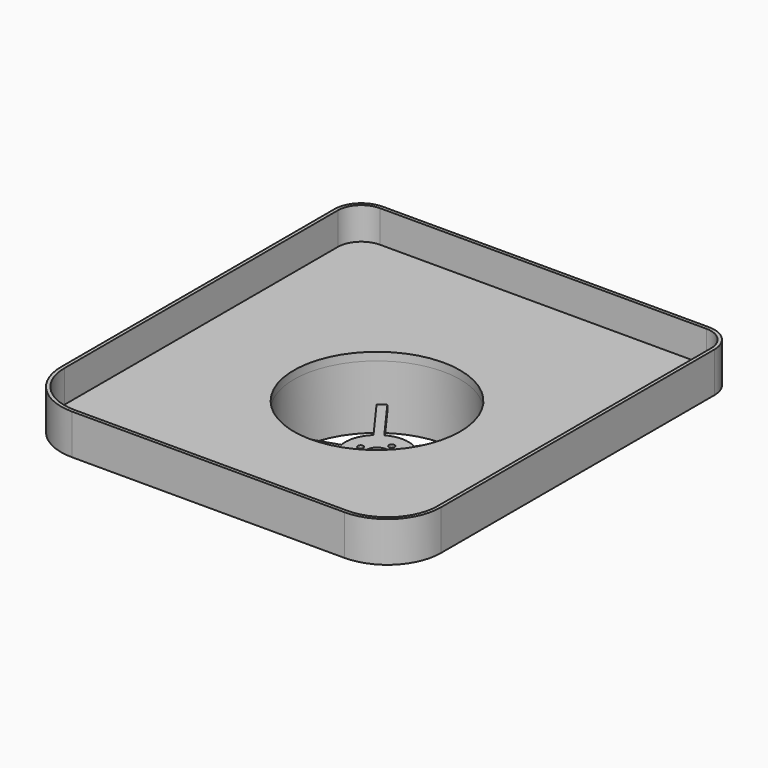
from build123d import *

# Parameters (mm, degrees)
F0_R      = 39.37
F1_DEPTH  = 3.81
F3_DEPTH  = 15.24
F4_R      = 42.87
F4_R_2    = 39.37
F5_DEPTH  = 30
F7_R      = 5
F8_DEPTH  = 3
F9_R      = 1.3269668218
F10_DEPTH = 25


with BuildPart() as f1:
    # F0 (on Top) → F1 (new body)
    with BuildSketch(Plane.XY):
        with BuildLine():
            ThreePointArc((0, 25.4), (7.4394877579, 7.4394877579), (25.4, 0))
            Line((25.4, 0), (154.6, 0))
            ThreePointArc((154.6, 0), (172.5605122421, 7.4394877579), (180, 25.4))
            Line((180, 25.4), (180, 187.3))
            ThreePointArc((180, 187.3), (176.2802561211, 196.2802561211), (167.3, 200))
            Line((167.3, 200), (12.7, 200))
            ThreePointArc((12.7, 200), (3.7197438789, 196.2802561211), (0, 187.3))
            Line((0, 187.3), (0, 25.4))
        make_face()
        with Locations((90, 100)):
            Circle(F0_R, mode=Mode.SUBTRACT)
    extrude(amount=F1_DEPTH)

    # F2 (on face) → F3 (join)
    with BuildSketch(Plane.XY.offset(3.81)):
        with BuildLine():
            Line((0, 187.3), (0, 25.4))
            ThreePointArc((0, 25.4), (7.4394877579, 7.4394877579), (25.4, 0))
            Line((25.4, 0), (154.6, 0))
            ThreePointArc((154.6, 0), (172.5605122421, 7.4394877579), (180, 25.4))
            Line((180, 25.4), (180, 187.3))
            ThreePointArc((180, 187.3), (176.2802561211, 196.2802561211), (167.3, 200))
            Line((167.3, 200), (12.7, 200))
            ThreePointArc((12.7, 200), (3.7197438789, 196.2802561211), (0, 187.3))
        make_face()
        with BuildLine():
            ThreePointArc((178.4, 25.4), (171.4291413922, 8.5708586078), (154.6, 1.6))
            Line((154.6, 1.6), (25.4, 1.6))
            ThreePointArc((25.4, 1.6), (8.5708586078, 8.5708586078), (1.6, 25.4))
            Line((1.6, 25.4), (1.6, 187.3))
            ThreePointArc((1.6, 187.3), (4.8511147288, 195.1488852712), (12.7, 198.4))
            Line((12.7, 198.4), (167.3, 198.4))
            ThreePointArc((167.3, 198.4), (175.1488852712, 195.1488852712), (178.4, 187.3))
            Line((178.4, 187.3), (178.4, 25.4))
        make_face(mode=Mode.SUBTRACT)
    extrude(amount=F3_DEPTH)


with BuildPart() as f5:
    # F4 (on Top) → F5 (new body)
    with BuildSketch(Plane.XY):
        with Locations((90, 100)):
            Circle(F4_R)
        with Locations((90, 100)):
            Circle(F4_R_2, mode=Mode.SUBTRACT)
    extrude(amount=-F5_DEPTH)

    # F7 (on offset) → F8 (join)
    with BuildSketch(Plane.XY.offset(-21.19)):
        with BuildLine():
            ThreePointArc((104.7565055426, 97.3082451501), (104.9390023619, 98.6486272052), (105, 100))
            ThreePointArc((105, 100), (103.7902383839, 105.9016375113), (100.356089958, 110.8513317515))
            Line((100.356089958, 110.8513317515), (99.67855692, 109.9187875275))
            Line((99.67855692, 109.9187875275), (96.5325938917, 112.3939473597))
            Line((96.5325938917, 112.3939473597), (97.1200219805, 113.2024727607))
            ThreePointArc((97.1200219805, 113.2024727607), (90, 115), (82.8799780195, 113.2024727607))
            Line((82.8799780195, 113.2024727607), (83.5575110575, 112.2699285367))
            Line((83.5575110575, 112.2699285367), (80.2313381308, 110.0428063506))
            Line((80.2313381308, 110.0428063506), (79.643910042, 110.8513317515))
            ThreePointArc((79.643910042, 110.8513317515), (75.7341522556, 104.6352549156), (75.2434944574, 97.3082451501))
            Line((75.2434944574, 97.3082451501), (76.3397659414, 97.6644453477))
            Line((76.3397659414, 97.6644453477), (77.4300410485, 93.8128483073))
            Line((77.4300410485, 93.8128483073), (76.4795624349, 93.5040190849))
            ThreePointArc((76.4795624349, 93.5040190849), (81.1832212156, 87.8647450844), (88, 85.1339312527))
            Line((88, 85.1339312527), (88, 86.2866193056))
            Line((88, 86.2866193056), (92, 86.1333236098))
            Line((92, 86.1333236098), (92, 85.1339312527))
            ThreePointArc((92, 85.1339312527), (98.8167787844, 87.8647450844), (103.5204375651, 93.5040190849))
            Line((103.5204375651, 93.5040190849), (102.4241660811, 93.8602192825))
            Line((102.4241660811, 93.8602192825), (103.806026929, 97.6170743725))
            Line((103.806026929, 97.6170743725), (104.7565055426, 97.3082451501))
        make_face()
        with Locations((90, 100)):
            Circle(F7_R, mode=Mode.SUBTRACT)
        with BuildLine():
            Line((92, 60.5456195772), (92, 85.1339312527))
            ThreePointArc((92, 85.1339312527), (90, 85), (88, 85.1339312527))
            Line((88, 85.1339312527), (88, 60.5456195772))
            Line((88, 60.5456195772), (92, 60.5456195772))
        make_face()
        with BuildLine():
            ThreePointArc((76.4795624349, 93.5040190849), (75.7341522556, 95.3647450844), (75.2434944574, 97.3082451501))
            Line((75.2434944574, 97.3082451501), (51.8586204137, 89.7100389794))
            Line((51.8586204137, 89.7100389794), (53.0946883912, 85.9058129142))
            Line((53.0946883912, 85.9058129142), (76.4795624349, 93.5040190849))
        make_face()
        with BuildLine():
            ThreePointArc((79.643910042, 110.8513317515), (81.1832212156, 112.1352549156), (82.8799780195, 113.2024727607))
            Line((82.8799780195, 113.2024727607), (68.4273310379, 133.0948347692))
            Line((68.4273310379, 133.0948347692), (65.1912630604, 130.74369376))
            Line((65.1912630604, 130.74369376), (79.643910042, 110.8513317515))
        make_face()
        with BuildLine():
            ThreePointArc((97.1200219805, 113.2024727607), (98.8167787844, 112.1352549156), (100.356089958, 110.8513317515))
            Line((100.356089958, 110.8513317515), (114.8087369396, 130.74369376))
            Line((114.8087369396, 130.74369376), (111.5726689621, 133.0948347692))
            Line((111.5726689621, 133.0948347692), (97.1200219805, 113.2024727607))
        make_face()
        with BuildLine():
            Line((128.1413795863, 89.7100389794), (104.7565055426, 97.3082451501))
            ThreePointArc((104.7565055426, 97.3082451501), (104.2658477444, 95.3647450844), (103.5204375651, 93.5040190849))
            Line((103.5204375651, 93.5040190849), (126.9053116088, 85.9058129142))
            Line((126.9053116088, 85.9058129142), (128.1413795863, 89.7100389794))
        make_face()
        with BuildLine():
            ThreePointArc((103.5204375651, 93.5040190849), (104.2658477444, 95.3647450844), (104.7565055426, 97.3082451501))
            Line((104.7565055426, 97.3082451501), (103.806026929, 97.6170743725))
            Line((103.806026929, 97.6170743725), (102.4241660811, 93.8602192825))
            Line((102.4241660811, 93.8602192825), (103.5204375651, 93.5040190849))
        make_face()
        with BuildLine():
            ThreePointArc((88, 85.1339312527), (90, 85), (92, 85.1339312527))
            Line((92, 85.1339312527), (92, 86.1333236098))
            Line((92, 86.1333236098), (88, 86.2866193056))
            Line((88, 86.2866193056), (88, 85.1339312527))
        make_face()
        with BuildLine():
            Line((76.3397659414, 97.6644453477), (75.2434944574, 97.3082451501))
            ThreePointArc((75.2434944574, 97.3082451501), (75.7341522556, 95.3647450844), (76.4795624349, 93.5040190849))
            Line((76.4795624349, 93.5040190849), (77.4300410485, 93.8128483073))
            Line((77.4300410485, 93.8128483073), (76.3397659414, 97.6644453477))
        make_face()
        with BuildLine():
            Line((83.5575110575, 112.2699285367), (82.8799780195, 113.2024727607))
            ThreePointArc((82.8799780195, 113.2024727607), (81.1832212156, 112.1352549156), (79.643910042, 110.8513317515))
            Line((79.643910042, 110.8513317515), (80.2313381308, 110.0428063506))
            Line((80.2313381308, 110.0428063506), (83.5575110575, 112.2699285367))
        make_face()
        with BuildLine():
            Line((99.67855692, 109.9187875275), (100.356089958, 110.8513317515))
            ThreePointArc((100.356089958, 110.8513317515), (98.8167787844, 112.1352549156), (97.1200219805, 113.2024727607))
            Line((97.1200219805, 113.2024727607), (96.5325938917, 112.3939473597))
            Line((96.5325938917, 112.3939473597), (99.67855692, 109.9187875275))
        make_face()
    extrude(amount=F8_DEPTH)

    # F9 (on face) → F10 (cut)
    with BuildSketch(Plane(origin=(0, 0, -21.19), x_dir=(1, 0, 0), z_dir=(0, 0, -1))):
        with Locations((90.4655754566, -108.1560328603)):
            Circle(F9_R)
        with Locations((98.1560328603, -99.5344245434)):
            Circle(F9_R)
        with Locations((89.5344245434, -91.8439671397)):
            Circle(F9_R)
        with Locations((81.8439671397, -100.4655754566)):
            Circle(F9_R)
    extrude(amount=-F10_DEPTH, mode=Mode.SUBTRACT)


solid = Compound([f1.part, f5.part])
